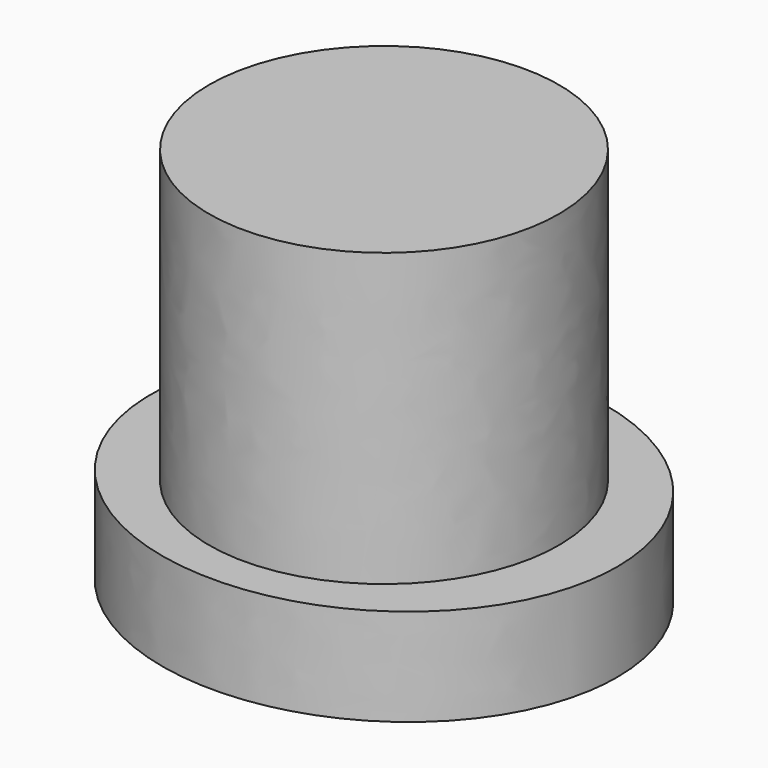
from build123d import *

# Parameters (mm, degrees)
F1_DEPTH = 25.4
F2_DEPTH = 6.35
F3_DEPTH = 20.32


with BuildPart() as f1:
    # F0 (on Top) → F1 (new body)
    with BuildSketch(Plane.XY):
        with BuildLine():
            add(Edge.make_bspline(
                [(-11.43, 0), (-11.43, -19.797341), (5.715, -9.89867), (22.86, 0), (5.715, 9.89867), (-11.43, 19.797341), (-11.43, 0)],
                knots=[0, 0, 0, 2.094395, 2.094395, 4.18879, 4.18879, 6.283185, 6.283185, 6.283185], degree=2, weights=[1, 0.5, 1, 0.5, 1, 0.5, 1]))
        make_face()
        with BuildLine():
            add(Edge.make_bspline(
                [(7.62, 0), (7.62, 10.998523), (-3.81, 5.499261), (-15.24, 0), (-3.81, -5.499261), (7.62, -10.998523), (7.62, 0)],
                knots=[0, 0, 0, 2.094395, 2.094395, 4.18879, 4.18879, 6.283185, 6.283185, 6.283185], degree=2, weights=[1, 0.5, 1, 0.5, 1, 0.5, 1]))
        make_face(mode=Mode.SUBTRACT)
        with BuildLine():
            add(Edge.make_bspline(
                [(7.62, 0), (7.62, 10.998523), (-3.81, 5.499261), (-15.24, 0), (-3.81, -5.499261), (7.62, -10.998523), (7.62, 0)],
                knots=[0, 0, 0, 2.094395, 2.094395, 4.18879, 4.18879, 6.283185, 6.283185, 6.283185], degree=2, weights=[1, 0.5, 1, 0.5, 1, 0.5, 1]))
        make_face()
    extrude(amount=F1_DEPTH)

    # F0 (on Top) → F2 (join)
    with BuildSketch(Plane.XY):
        with BuildLine():
            add(Edge.make_bspline(
                [(15.24, 0), (15.24, 24.19675), (-7.62, 12.098375), (-30.48, 0), (-7.62, -12.098375), (15.24, -24.19675), (15.24, 0)],
                knots=[0, 0, 0, 2.094395, 2.094395, 4.18879, 4.18879, 6.283185, 6.283185, 6.283185], degree=2, weights=[1, 0.5, 1, 0.5, 1, 0.5, 1]))
        make_face()
        with BuildLine():
            add(Edge.make_bspline(
                [(-11.43, 0), (-11.43, -19.797341), (5.715, -9.89867), (22.86, 0), (5.715, 9.89867), (-11.43, 19.797341), (-11.43, 0)],
                knots=[0, 0, 0, 2.094395, 2.094395, 4.18879, 4.18879, 6.283185, 6.283185, 6.283185], degree=2, weights=[1, 0.5, 1, 0.5, 1, 0.5, 1]))
        make_face(mode=Mode.SUBTRACT)
    extrude(amount=F2_DEPTH)

    # F0 (on Top) → F3 (cut)
    with BuildSketch(Plane.XY):
        with BuildLine():
            add(Edge.make_bspline(
                [(7.62, 0), (7.62, 10.998523), (-3.81, 5.499261), (-15.24, 0), (-3.81, -5.499261), (7.62, -10.998523), (7.62, 0)],
                knots=[0, 0, 0, 2.094395, 2.094395, 4.18879, 4.18879, 6.283185, 6.283185, 6.283185], degree=2, weights=[1, 0.5, 1, 0.5, 1, 0.5, 1]))
        make_face()
    extrude(amount=F3_DEPTH, mode=Mode.SUBTRACT)


solid = f1.part
